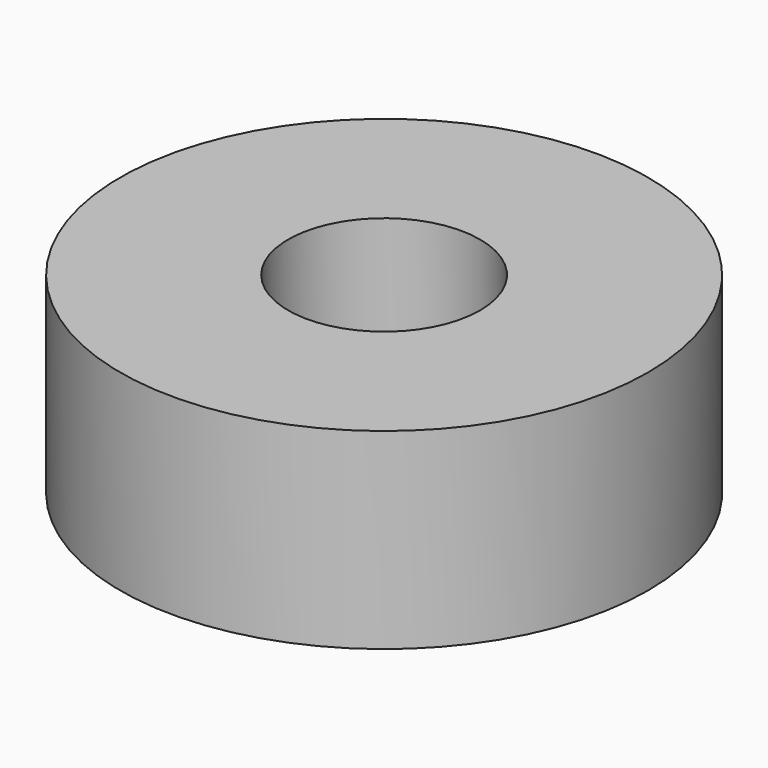
from build123d import *

# Parameters (mm, degrees)
F0_R     = 2.75
F1_DEPTH = 8
F2_R     = 2.75
F2_R_2   = 1.5
F3_DEPTH = 6
F4_R     = 1
F5_DEPTH = 2
F6_R     = 1.5
F7_DEPTH = 5.5


with BuildPart() as f1:
    # F0 (on Top) → F1 (new body)
    with BuildSketch(Plane.XY):
        Circle(F0_R)
    extrude(amount=F1_DEPTH)

    # F2 (on face) → F3 (cut)
    with BuildSketch(Plane(origin=(0, 0, 0), x_dir=(1, 0, 0), z_dir=(0, 0, -1))):
        Circle(F2_R)
        Circle(F2_R_2, mode=Mode.SUBTRACT)
    extrude(amount=-F3_DEPTH, mode=Mode.SUBTRACT)

    # F4 (on face) → F5 (cut)
    with BuildSketch(Plane.XY.offset(8)):
        Circle(F4_R)
    extrude(amount=-F5_DEPTH, mode=Mode.SUBTRACT)

    # F6 (on face) → F7 (cut)
    with BuildSketch(Plane(origin=(0, 0, 0), x_dir=(1, 0, 0), z_dir=(0, 0, -1))):
        Circle(F6_R)
    extrude(amount=-F7_DEPTH, mode=Mode.SUBTRACT)


solid = f1.part
